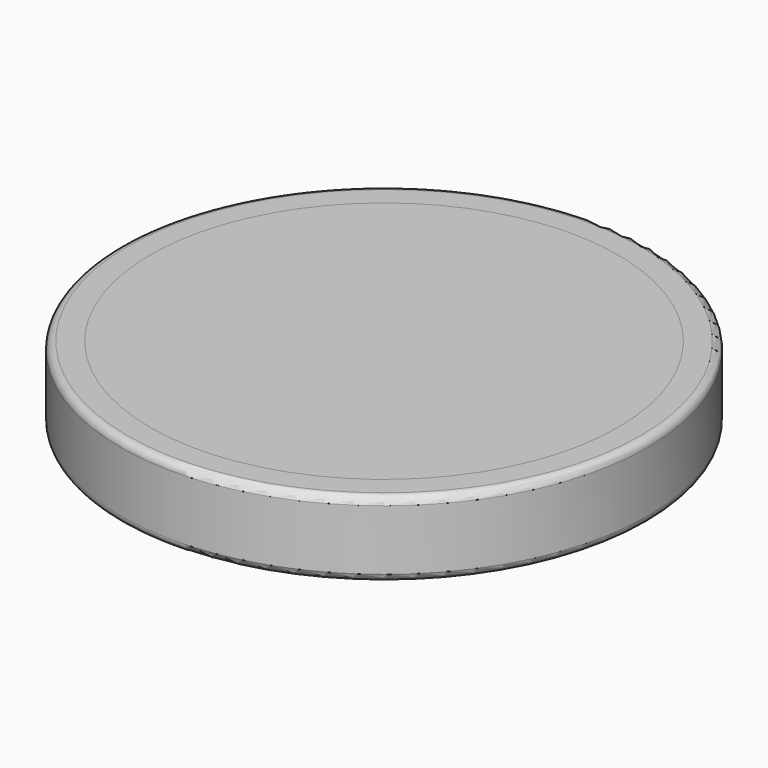
from build123d import *

# Parameters (mm, degrees)
F0_R     = 17.5
F0_R_2   = 15.5
F1_DEPTH = 5
F2_DEPTH = 5
F3_R     = 0.5


with BuildPart() as f1:
    # F0 (on Top) → F1 (new body)
    with BuildSketch(Plane.XY):
        Circle(F0_R)
        Circle(F0_R_2, mode=Mode.SUBTRACT)
    extrude(amount=F1_DEPTH)

    # F3
    f3_edges = [f1.edges().sort_by_distance(p)[0] for p in [
        (-17.5, 0, 5),
        (-17.5, 0, 0),
    ]]
    fillet(f3_edges, radius=F3_R)


with BuildPart() as f2:
    # F0 (on Top) → F2 (new body)
    with BuildSketch(Plane.XY):
        Circle(F0_R_2)
    extrude(amount=F2_DEPTH)


solid = Compound([f1.part, f2.part])
